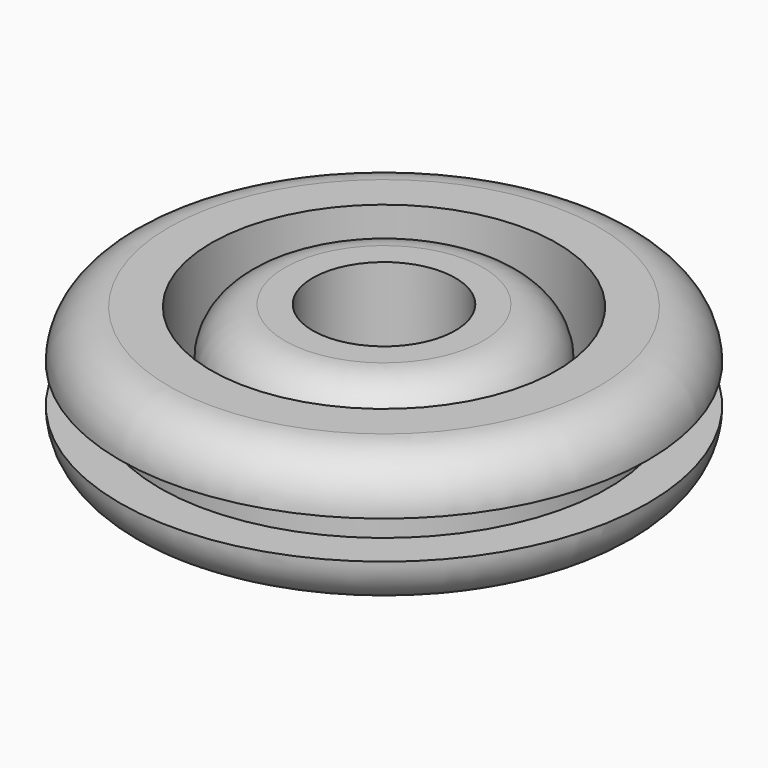
from build123d import *


with BuildPart() as f1:
    # F0 (on Front) → F1 (revolve)
    with BuildSketch(Plane.XZ):
        with BuildLine():
            Line((-7.75, -3.05), (-7.75, 3.05))
            Line((-7.75, 3.05), (-9.65, 3.05))
            ThreePointArc((-9.65, 3.05), (-11.205635, 2.405635), (-11.85, 0.85))
            Line((-11.85, 0.85), (-10.05, 0.85))
            Line((-10.05, 0.85), (-10.05, -0.85))
            Line((-10.05, -0.85), (-11.85, -0.85))
            ThreePointArc((-11.85, -0.85), (-11.205635, -2.405635), (-9.65, -3.05))
            Line((-9.65, -3.05), (-7.75, -3.05))
        make_face()
    revolve(axis=Axis((0, 0, 1.525), (0, 0, 1)))


with BuildPart() as f3:
    # F2 (on Front) → F3 (revolve)
    with BuildSketch(Plane.XZ):
        with BuildLine():
            Line((-3.2, -3.15), (-3.2, 3.15))
            Line((-3.2, 3.15), (-4.45, 3.15))
            ThreePointArc((-4.45, 3.15), (-6.005635, 2.505635), (-6.65, 0.95))
            Line((-6.65, 0.95), (-6.65, 0.85))
            Line((-6.65, 0.85), (-5, 0.85))
            Line((-5, 0.85), (-5, -0.85))
            Line((-5, -0.85), (-6.65, -0.85))
            Line((-6.65, -0.85), (-6.65, -0.95))
            ThreePointArc((-6.65, -0.95), (-6.005635, -2.505635), (-4.45, -3.15))
            Line((-4.45, -3.15), (-3.2, -3.15))
        make_face()
    revolve(axis=Axis((0, 0, 1.575), (0, 0, 1)))


solid = Compound([f1.part, f3.part])
